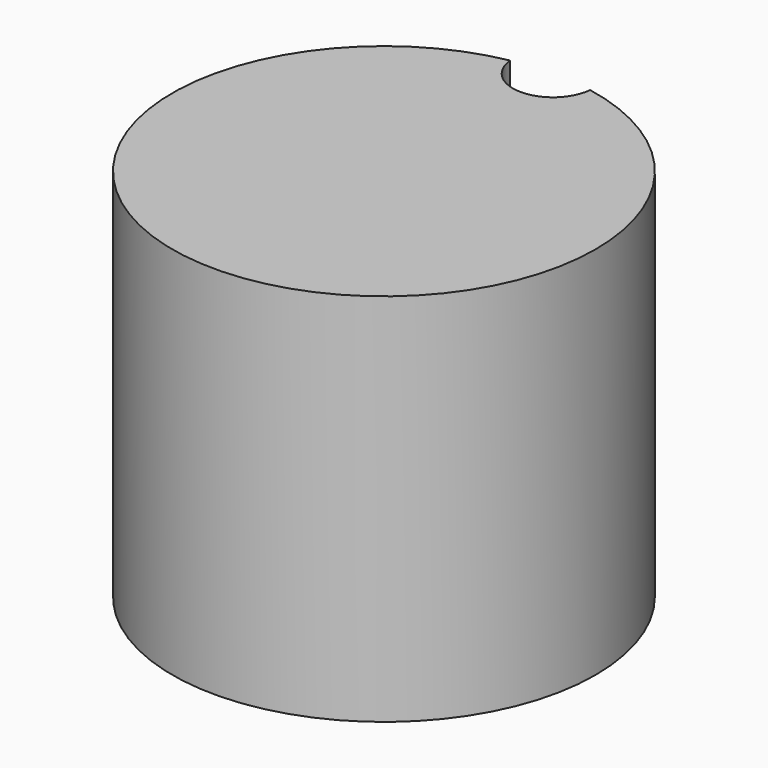
from build123d import *

# Parameters (mm, degrees)
F0_R     = 66.803899
F1_DEPTH = 118.288733
F4_DEPTH = 60


with BuildPart() as f1:
    # F0 (on Top) → F1 (new body)
    with BuildSketch(Plane.XY):
        Circle(F0_R)
    extrude(amount=F1_DEPTH)

    # F3 (on face) → F4 (cut)
    with BuildSketch(Plane.XY.offset(118.288733)):
        with BuildLine():
            ThreePointArc((12.624005, 65.60027), (12.663277, 66.175224), (12.676377, 66.751368))
            ThreePointArc((12.676377, 66.751368), (-0.576144, 79.414645), (-12.624005, 65.60027))
            ThreePointArc((-12.624005, 65.60027), (0, 66.803899), (12.624005, 65.60027))
        make_face()
        with BuildLine():
            ThreePointArc((12.624005, 65.60027), (0, 66.803899), (-12.624005, 65.60027))
            ThreePointArc((-12.624005, 65.60027), (0, 54.074992), (12.624005, 65.60027))
        make_face()
    extrude(amount=-F4_DEPTH, mode=Mode.SUBTRACT)


solid = f1.part
